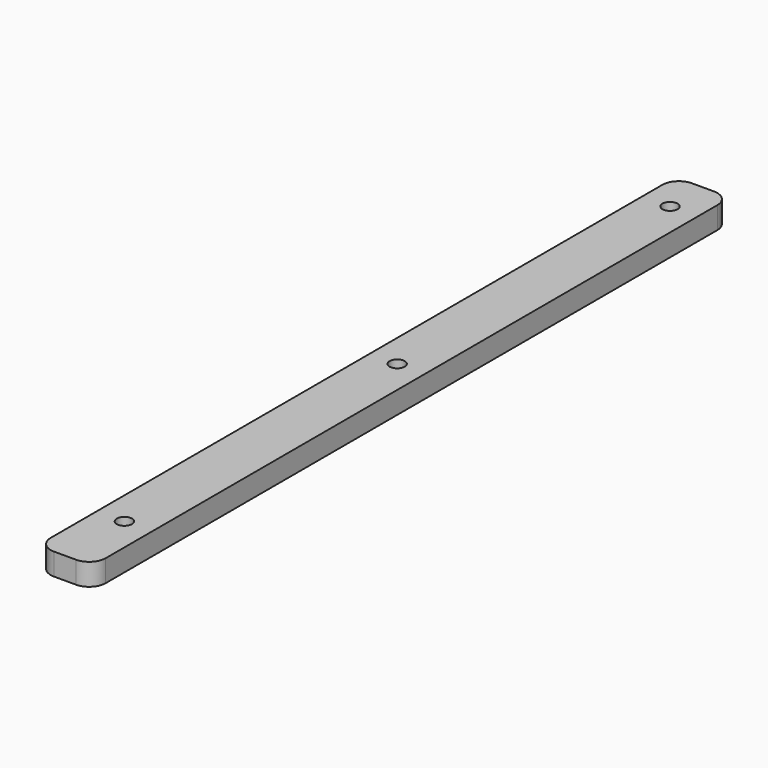
from build123d import *

# Parameters (mm, degrees)
CYLINDER077_R     = 1.38
CYLINDER077_DEPTH = 13
CYLINDER076_R     = 1.38
CYLINDER076_DEPTH = 13
CYLINDER075_R     = 1.38
CYLINDER075_DEPTH = 13
BOX042_W          = 10
BOX042_H          = 145
BOX042_DEPTH      = 4
FILLET009_R       = 3


with BuildPart() as cylinder077:
    # Cylinder077 → Cylinder077 (new body)
    with BuildSketch(Plane(origin=(25, 188.5, 59), x_dir=(1, 0, 0), z_dir=(0, 0, 1))):
        Circle(CYLINDER077_R)
    extrude(amount=CYLINDER077_DEPTH)


with BuildPart() as cylinder076:
    # Cylinder076 → Cylinder076 (new body)
    with BuildSketch(Plane(origin=(25, 126.5, 59), x_dir=(1, 0, 0), z_dir=(0, 0, 1))):
        Circle(CYLINDER076_R)
    extrude(amount=CYLINDER076_DEPTH)


with BuildPart() as cylinder075:
    # Cylinder075 → Cylinder075 (new body)
    with BuildSketch(Plane(origin=(25, 64.5, 59), x_dir=(1, 0, 0), z_dir=(0, 0, 1))):
        Circle(CYLINDER075_R)
    extrude(amount=CYLINDER075_DEPTH)


with BuildPart() as obj1:
    # Box042 → Box042 (new body)
    with BuildSketch(Plane(origin=(20, 51, 66), x_dir=(1, 0, 0), z_dir=(0, 0, 1))):
        with Locations((5, 72.5)):
            Rectangle(BOX042_W, BOX042_H)
    extrude(amount=BOX042_DEPTH)

    # Fillet009
    fillet009_edges = [obj1.edges().sort_by_distance(p)[0] for p in [
        (20, 51, 68),
        (20, 196, 68),
        (30, 51, 68),
        (30, 196, 68),
    ]]
    fillet(fillet009_edges, radius=FILLET009_R)

    # Cut050: cut Cylinder075
    add(cylinder075.part, mode=Mode.SUBTRACT)

    # Cut051: cut Cylinder076
    add(cylinder076.part, mode=Mode.SUBTRACT)

    # Cut052: cut Cylinder077
    add(cylinder077.part, mode=Mode.SUBTRACT)


solid = obj1.part
